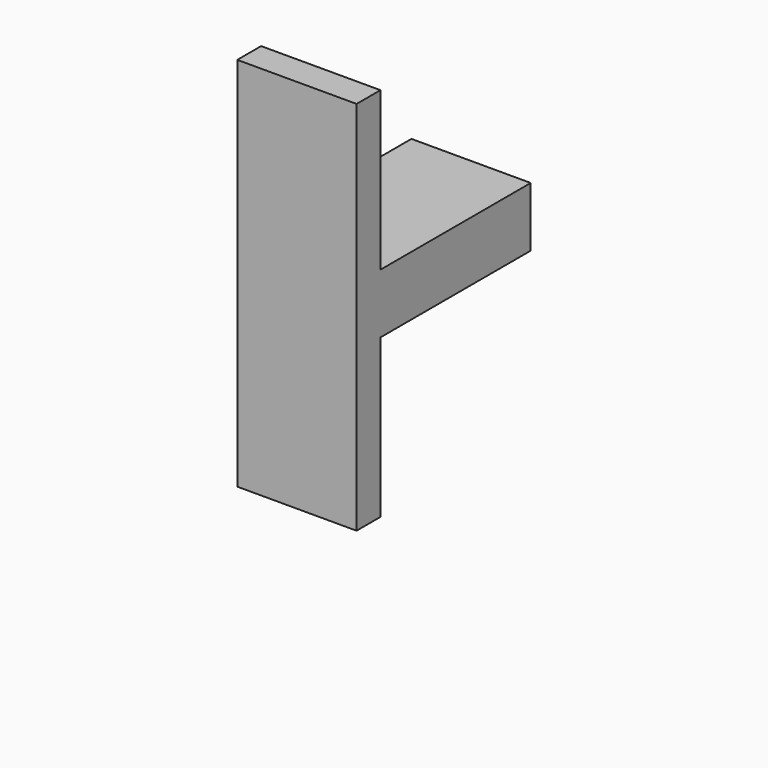
from build123d import *

# Parameters (mm, degrees)
RECTANGLE001_W          = 19.05
RECTANGLE001_H          = 4.76
EXTRUDE001_DEPTH        = 60
RECTANGLE_W             = 19.05
RECTANGLE_H             = 9.52
EXTRUDE_DEPTH           = 30
EXTRUDE_PLACEMENT_ANGLE = 90
CLONE_SCALE_SCALE       = 0.001


with BuildPart() as extrude001:
    # Rectangle001 → Extrude001 (new body)
    with BuildSketch(Plane(origin=(-9.525, 0, 0), x_dir=(1, 0, 0), z_dir=(0, 0, 1))):
        with Locations((9.525, 2.38)):
            Rectangle(RECTANGLE001_W, RECTANGLE001_H)
    extrude(amount=EXTRUDE001_DEPTH)


with BuildPart() as extrude001_1:
    # Extrude001 placement: moved
    add(extrude001.part.moved(Location((0, 0, 30))))


with BuildPart() as fusion:
    # Rectangle → Extrude (new body)
    with BuildSketch(Plane(origin=(-9.525, 0, 0), x_dir=(1, 0, 0), z_dir=(0, 0, 1))):
        with Locations((9.525, 4.76)):
            Rectangle(RECTANGLE_W, RECTANGLE_H)
    extrude(amount=EXTRUDE_DEPTH)


with BuildPart() as fusion_1:
    # Extrude placement: moved
    add(fusion.part.moved(Location((0, 34.76, 55.24))).rotate(Axis((0, 34.76, 55.24), (1, 0, 0)), EXTRUDE_PLACEMENT_ANGLE))

    # Fusion: union Extrude001
    add(extrude001_1.part)


with BuildPart() as scaled:
    # Clone base: copy of Fusion
    add(fusion_1.part)


with BuildPart() as scaled_1:
    # Clone scale: moved
    add(scaled.part.scale(CLONE_SCALE_SCALE))


solid = Compound([fusion_1.part, scaled_1.part])
